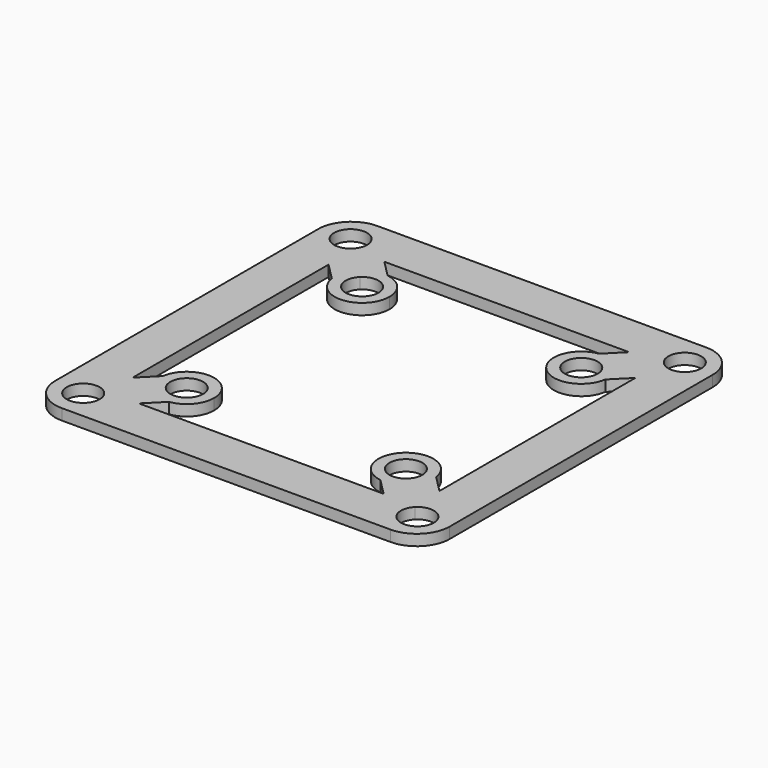
from build123d import *

# Parameters (mm, degrees)
F1_DEPTH = 1


with BuildPart() as f1:
    # F0 (on Top) → F1 (new body)
    with BuildSketch(Plane.XY):
        with BuildLine():
            Line((15, 18), (-15, 18))
            ThreePointArc((-15, 18), (-17.1213203436, 17.1213203436), (-18, 15))
            Line((-18, 15), (-18, -15))
            ThreePointArc((-18, -15), (-17.1213203436, -17.1213203436), (-15, -18))
            Line((-15, -18), (15, -18))
            ThreePointArc((15, -18), (17.1213203436, -17.1213203436), (18, -15))
            Line((18, -15), (18, 15))
            ThreePointArc((18, 15), (17.1213203436, 17.1213203436), (15, 18))
        make_face()
        with BuildLine():
            ThreePointArc((-13.75, -15.25), (-16.6358192988, -15.8240251485), (-14.1893398282, -14.1893398282))
            ThreePointArc((-14.1893398282, -14.1893398282), (-13.8641807012, -14.6759748515), (-13.75, -15.25))
        make_face(mode=Mode.SUBTRACT)
        with BuildLine():
            ThreePointArc((16.75, -15.25), (14.6759748515, -16.6358192988), (14.1893398282, -14.1893398282))
            ThreePointArc((14.1893398282, -14.1893398282), (15.8240251485, -13.8641807012), (16.75, -15.25))
        make_face(mode=Mode.SUBTRACT)
        with BuildLine():
            ThreePointArc((-13.75, 15.25), (-13.8641807012, 14.6759748515), (-14.1893398282, 14.1893398282))
            ThreePointArc((-14.1893398282, 14.1893398282), (-16.6358192988, 15.8240251485), (-13.75, 15.25))
        make_face(mode=Mode.SUBTRACT)
        Polygon((-14, 11.1715728753), (-14, 14), (-11.1715728753, 14), (11.1715728753, 14), (14, 14), (14, 11.1715728753), (14, -11.1715728753), (14, -14), (11.1715728753, -14), (-11.1715728753, -14), (-14, -14), (-14, -11.1715728753), align=None, mode=Mode.SUBTRACT)
        with BuildLine():
            ThreePointArc((16.75, 15.25), (15.8240251485, 13.8641807012), (14.1893398282, 14.1893398282))
            ThreePointArc((14.1893398282, 14.1893398282), (14.6759748515, 16.6358192988), (16.75, 15.25))
        make_face(mode=Mode.SUBTRACT)
        with BuildLine():
            Line((-14, 14), (-11.767766953, 11.767766953))
            ThreePointArc((-11.767766953, 11.767766953), (-10.790569415, 12.3717082451), (-9.6464466094, 12.4748737342))
            Line((-9.6464466094, 12.4748737342), (-11.1715728753, 14))
            Line((-11.1715728753, 14), (-14, 14))
        make_face()
        with BuildLine():
            ThreePointArc((-12.4748737342, 9.6464466094), (-12.3717082451, 10.790569415), (-11.767766953, 11.767766953))
            Line((-11.767766953, 11.767766953), (-14, 14))
            Line((-14, 14), (-14, 11.1715728753))
            Line((-14, 11.1715728753), (-12.4748737342, 9.6464466094))
        make_face()
        with BuildLine():
            ThreePointArc((-9.6464466094, 12.4748737342), (-10.790569415, 12.3717082451), (-11.767766953, 11.767766953))
            ThreePointArc((-11.767766953, 11.767766953), (-12.3717082451, 10.790569415), (-12.4748737342, 9.6464466094))
            ThreePointArc((-12.4748737342, 9.6464466094), (-9.8227774498, 7.506289478), (-7.5, 10))
            ThreePointArc((-7.5, 10), (-8.1113651125, 11.6380043534), (-9.6464466094, 12.4748737342))
        make_face()
        with BuildLine():
            ThreePointArc((-11.0606601718, 11.0606601718), (-9.4259748515, 11.3858192988), (-8.5, 10))
            ThreePointArc((-8.5, 10), (-10.5740251485, 8.6141807012), (-11.0606601718, 11.0606601718))
        make_face(mode=Mode.SUBTRACT)
        with BuildLine():
            Line((14, 14), (11.1715728753, 14))
            Line((11.1715728753, 14), (9.6464466094, 12.4748737342))
            ThreePointArc((9.6464466094, 12.4748737342), (10.790569415, 12.3717082451), (11.767766953, 11.767766953))
            Line((11.767766953, 11.767766953), (14, 14))
        make_face()
        with BuildLine():
            Line((14, 11.1715728753), (14, 14))
            Line((14, 14), (11.767766953, 11.767766953))
            ThreePointArc((11.767766953, 11.767766953), (12.3096988313, 10.9567085809), (12.5, 10))
            ThreePointArc((12.5, 10), (12.493710522, 9.8227774498), (12.4748737342, 9.6464466094))
            Line((12.4748737342, 9.6464466094), (14, 11.1715728753))
        make_face()
        with BuildLine():
            ThreePointArc((11.767766953, 11.767766953), (10.790569415, 12.3717082451), (9.6464466094, 12.4748737342))
            ThreePointArc((9.6464466094, 12.4748737342), (8.232233047, 8.232233047), (12.4748737342, 9.6464466094))
            ThreePointArc((12.4748737342, 9.6464466094), (12.493710522, 9.8227774498), (12.5, 10))
            ThreePointArc((12.5, 10), (12.3096988313, 10.9567085809), (11.767766953, 11.767766953))
        make_face()
        with BuildLine():
            ThreePointArc((11.5, 10), (8.6141807012, 9.4259748515), (11.0606601718, 11.0606601718))
            ThreePointArc((11.0606601718, 11.0606601718), (11.3858192988, 10.5740251485), (11.5, 10))
        make_face(mode=Mode.SUBTRACT)
        with BuildLine():
            Line((14, -14), (14, -11.1715728753))
            Line((14, -11.1715728753), (12.4748737342, -9.6464466094))
            ThreePointArc((12.4748737342, -9.6464466094), (12.493710522, -9.8227774498), (12.5, -10))
            ThreePointArc((12.5, -10), (12.3096988313, -10.9567085809), (11.767766953, -11.767766953))
            Line((11.767766953, -11.767766953), (14, -14))
        make_face()
        with BuildLine():
            Line((9.6464466094, -12.4748737342), (11.1715728753, -14))
            Line((11.1715728753, -14), (14, -14))
            Line((14, -14), (11.767766953, -11.767766953))
            ThreePointArc((11.767766953, -11.767766953), (10.790569415, -12.3717082451), (9.6464466094, -12.4748737342))
        make_face()
        with BuildLine():
            ThreePointArc((12.5, -10), (12.493710522, -9.8227774498), (12.4748737342, -9.6464466094))
            ThreePointArc((12.4748737342, -9.6464466094), (8.232233047, -8.232233047), (9.6464466094, -12.4748737342))
            ThreePointArc((9.6464466094, -12.4748737342), (10.790569415, -12.3717082451), (11.767766953, -11.767766953))
            ThreePointArc((11.767766953, -11.767766953), (12.3096988313, -10.9567085809), (12.5, -10))
        make_face()
        with BuildLine():
            ThreePointArc((11.5, -10), (11.3858192988, -10.5740251485), (11.0606601718, -11.0606601718))
            ThreePointArc((11.0606601718, -11.0606601718), (8.6141807012, -9.4259748515), (11.5, -10))
        make_face(mode=Mode.SUBTRACT)
        with BuildLine():
            ThreePointArc((-7.5, -10), (-9.8227774498, -7.506289478), (-12.4748737342, -9.6464466094))
            ThreePointArc((-12.4748737342, -9.6464466094), (-12.3717082451, -10.790569415), (-11.767766953, -11.767766953))
            ThreePointArc((-11.767766953, -11.767766953), (-10.790569415, -12.3717082451), (-9.6464466094, -12.4748737342))
            ThreePointArc((-9.6464466094, -12.4748737342), (-8.1113651125, -11.6380043534), (-7.5, -10))
        make_face()
        with BuildLine():
            ThreePointArc((-8.5, -10), (-9.4259748515, -11.3858192988), (-11.0606601718, -11.0606601718))
            ThreePointArc((-11.0606601718, -11.0606601718), (-10.5740251485, -8.6141807012), (-8.5, -10))
        make_face(mode=Mode.SUBTRACT)
        with BuildLine():
            Line((-12.4748737342, -9.6464466094), (-14, -11.1715728753))
            Line((-14, -11.1715728753), (-14, -14))
            Line((-14, -14), (-11.767766953, -11.767766953))
            ThreePointArc((-11.767766953, -11.767766953), (-12.3717082451, -10.790569415), (-12.4748737342, -9.6464466094))
        make_face()
        with BuildLine():
            Line((-11.767766953, -11.767766953), (-14, -14))
            Line((-14, -14), (-11.1715728753, -14))
            Line((-11.1715728753, -14), (-9.6464466094, -12.4748737342))
            ThreePointArc((-9.6464466094, -12.4748737342), (-10.790569415, -12.3717082451), (-11.767766953, -11.767766953))
        make_face()
    extrude(amount=F1_DEPTH)


solid = f1.part
